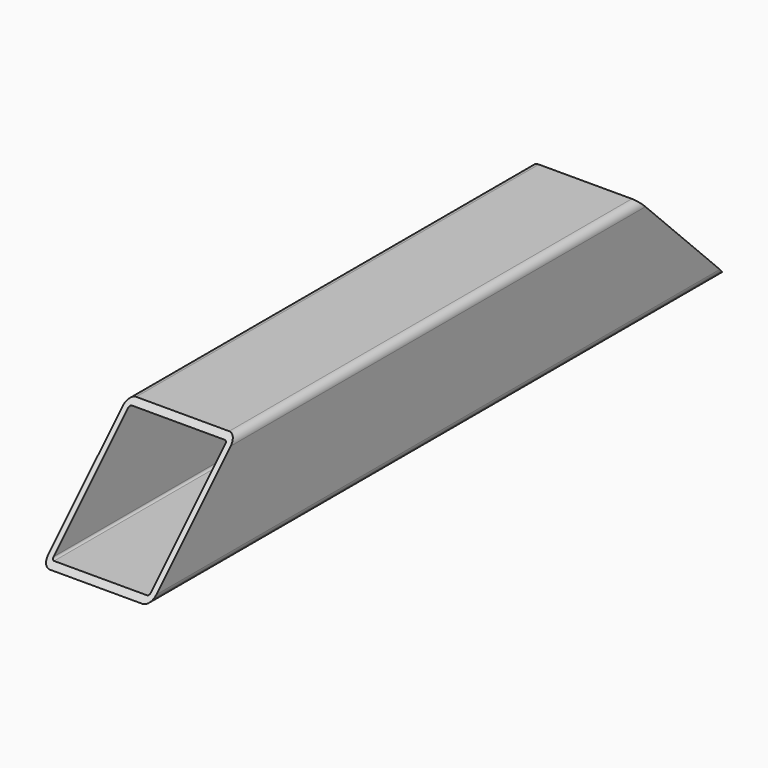
from build123d import *

# Parameters (mm, degrees)
F1_DEPTH = 332.75
F3_DEPTH = 100.001


with BuildPart() as f1:
    # F0 (on Front) → F1 (new body, symmetric)
    with BuildSketch(Plane.XZ):
        with BuildLine():
            ThreePointArc((50, 43), (47.9497474683, 47.9497474683), (43, 50))
            Line((43, 50), (-43, 50))
            ThreePointArc((-43, 50), (-47.9497474683, 47.9497474683), (-50, 43))
            Line((-50, 43), (-50, -43))
            ThreePointArc((-50, -43), (-47.9497474683, -47.9497474683), (-43, -50))
            Line((-43, -50), (43, -50))
            ThreePointArc((43, -50), (47.9497474683, -47.9497474683), (50, -43))
            Line((50, -43), (50, 43))
        make_face()
        with BuildLine():
            ThreePointArc((45, -43), (44.4142135624, -44.4142135624), (43, -45))
            Line((43, -45), (-43, -45))
            ThreePointArc((-43, -45), (-44.4142135624, -44.4142135624), (-45, -43))
            Line((-45, -43), (-45, 43))
            ThreePointArc((-45, 43), (-44.4142135624, 44.4142135624), (-43, 45))
            Line((-43, 45), (43, 45))
            ThreePointArc((43, 45), (44.4142135624, 44.4142135624), (45, 43))
            Line((45, 43), (45, -43))
        make_face(mode=Mode.SUBTRACT)
    extrude(amount=F1_DEPTH, both=True)

    # F2 (on face) → F3 (cut, through all)
    with BuildSketch(Plane.YZ.offset(50)):
        Polygon((332.75, 50), (232.75, 50), (332.75, -50), align=None)
        Polygon((-332.75, -50), (-232.75, 50), (-332.75, 50), align=None)
    extrude(amount=-F3_DEPTH, mode=Mode.SUBTRACT)


solid = f1.part
